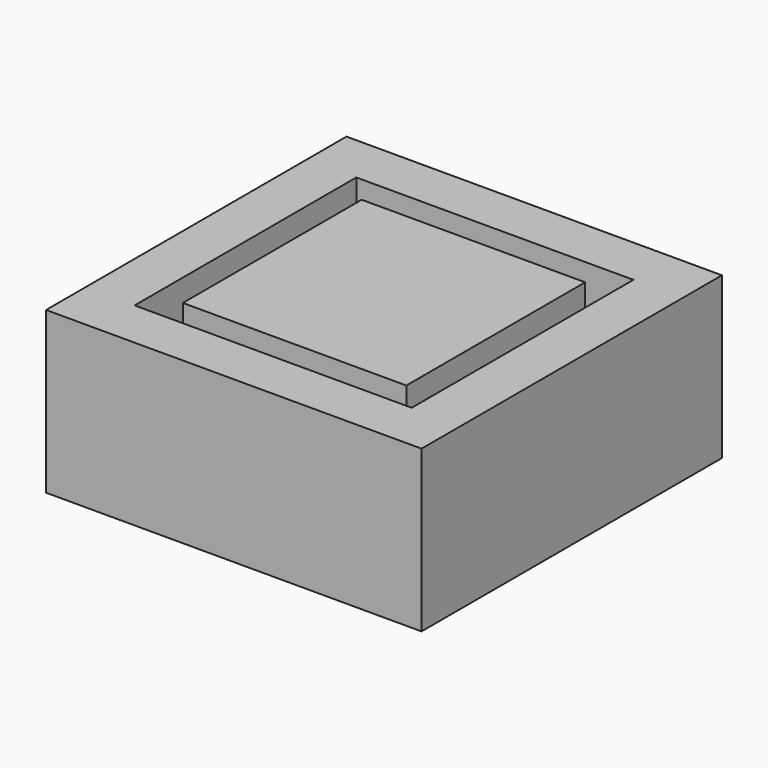
from build123d import *

# Parameters (mm, degrees)
F0_W     = 21
F0_H     = 21
F0_W_2   = 15.5
F0_H_2   = 15.5
F0_W_3   = 12.5
F0_H_3   = 12.5
F1_DEPTH = 2
F2_DEPTH = 7


with BuildPart() as f1:
    # F0 (on Top) → F1 (new body)
    with BuildSketch(Plane.XY):
        Rectangle(F0_W, F0_H)
        Rectangle(F0_W_2, F0_H_2, mode=Mode.SUBTRACT)
        Rectangle(F0_W_2, F0_H_2)
        Rectangle(F0_W_3, F0_H_3, mode=Mode.SUBTRACT)
        Rectangle(F0_W_3, F0_H_3)
    extrude(amount=-F1_DEPTH)

    # F0 (on Top) → F2 (join)
    with BuildSketch(Plane.XY):
        Rectangle(F0_W, F0_H)
        Rectangle(F0_W_2, F0_H_2, mode=Mode.SUBTRACT)
        Rectangle(F0_W_3, F0_H_3)
    extrude(amount=F2_DEPTH)


solid = f1.part
